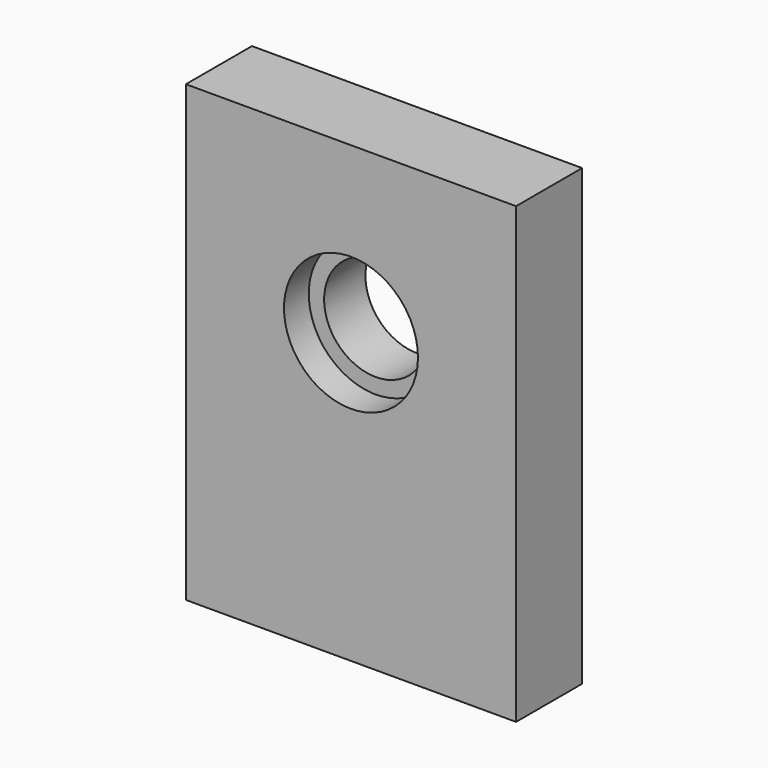
from build123d import *

# Parameters (mm, degrees)
F0_W     = 101.6
F0_H     = 139.7
F1_DEPTH = 25.4
F3_D     = 8.4328
F3_DEPTH = 25.4
F3_TIP   = 2.5334687141
F4_R     = 20.6121
F5_DEPTH = 9.525
F6_R     = 15.875
F7_DEPTH = 25.4


with BuildPart() as f1:
    # F0 (on Front) → F1 (new body)
    with BuildSketch(Plane.XZ):
        with Locations((9.0106602939, -2.4217218161)):
            Rectangle(F0_W, F0_H)
    extrude(amount=F1_DEPTH)

    # F3
    with Locations(Plane(origin=(0, 0, -72.2717218161), x_dir=(1, 0, 0), z_dir=(0, 0, -1))):
        with Locations((-16.3893397061, 12.7), (34.4106602939, 12.7)):
            Hole(F3_D / 2, depth=F3_DEPTH)
            with Locations((0, 0, -(F3_DEPTH + F3_TIP / 2))):  # 118° drill point
                Cone(0, F3_D / 2, F3_TIP, mode=Mode.SUBTRACT)

    # F4 (on face) → F5 (cut)
    with BuildSketch(Plane.XZ.offset(25.4)):
        with Locations((9.0106602939, 16.6282781839)):
            Circle(F4_R)
    extrude(amount=-F5_DEPTH, mode=Mode.SUBTRACT)

    # F6 (on face) → F7 (cut)
    with BuildSketch(Plane.XZ.offset(15.875)):
        with Locations((9.0106602939, 16.6282781839)):
            Circle(F6_R)
    extrude(amount=-F7_DEPTH, mode=Mode.SUBTRACT)


solid = f1.part
